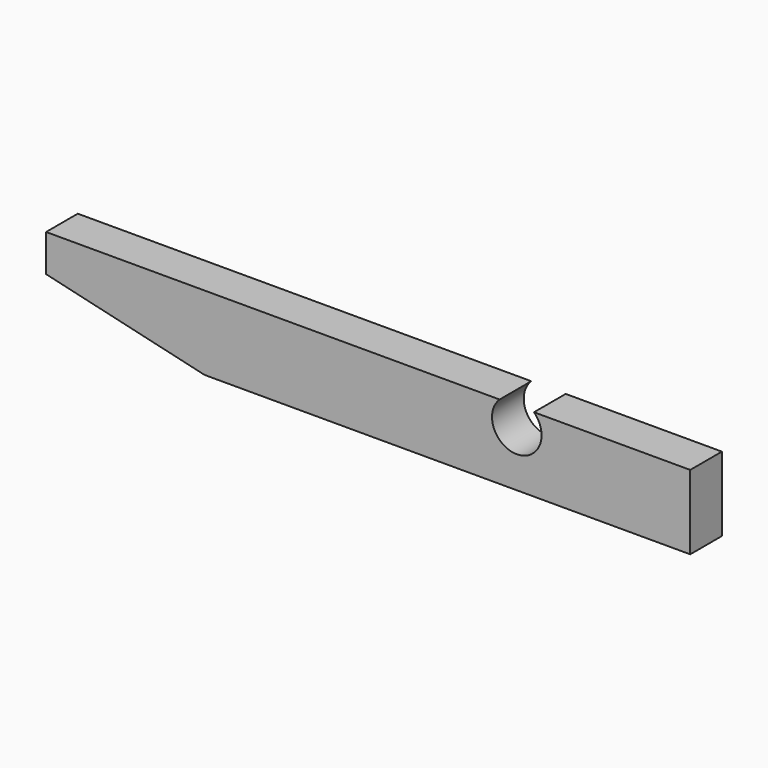
from build123d import *

# Parameters (mm, degrees)
F1_DEPTH = 5.08


with BuildPart() as f1:
    # F0 (on Front) → F1 (new body)
    with BuildSketch(Plane.XZ):
        with BuildLine():
            Line((41.275, -4.7625), (41.275, 4.7625))
            Line((41.275, 4.7625), (24.13, 4.7625))
            Line((24.13, 4.7625), (21.253368, 4.7625))
            ThreePointArc((21.253368, 4.7625), (19.05, -0.6985), (16.846632, 4.7625))
            Line((16.846632, 4.7625), (13.97, 4.7625))
            Line((13.97, 4.7625), (-41.275, 4.7625))
            Line((-41.275, 4.7625), (-41.275, 0))
            Line((-41.275, 0), (-20.955, -4.7625))
            Line((-20.955, -4.7625), (41.275, -4.7625))
        make_face()
    extrude(amount=F1_DEPTH)


solid = f1.part
